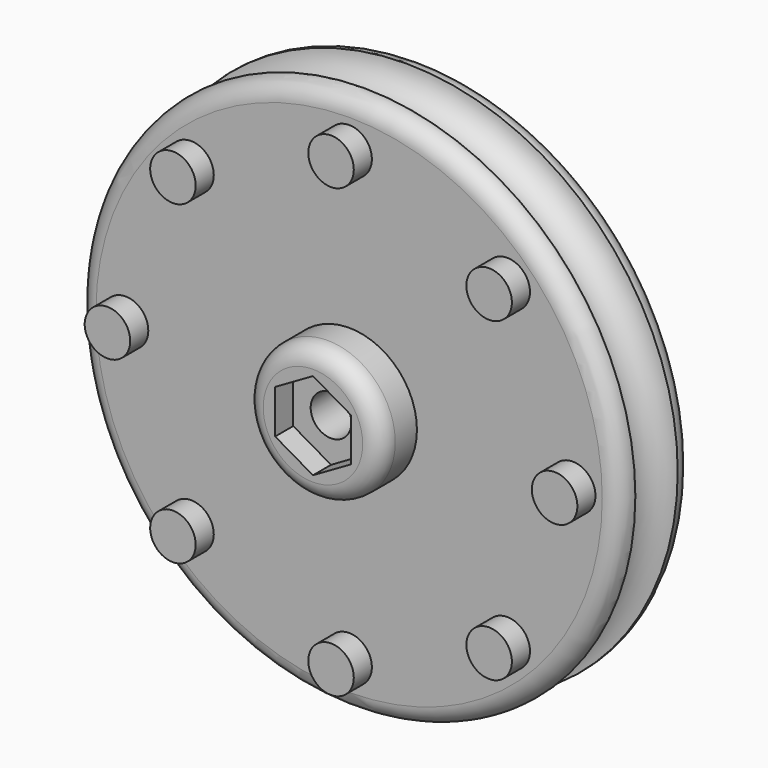
from build123d import *

# Parameters (mm, degrees)
F0_R      = 76.2
F1_DEPTH  = 25.4
F2_R      = 19.05
F3_DEPTH  = 12.7
F4_R      = 5.08
F5_R      = 5.08
F6_R      = 5.715
F7_DEPTH  = 38.1
F8_R      = 5.08
F9_R      = 5.715
F10_DEPTH = 6.35
F11_R     = 7.4420743401
F13_R     = 6.3925523525
F14_DEPTH = 6.35


with BuildPart() as f1:
    # F0 (on Front) → F1 (new body)
    with BuildSketch(Plane.XZ):
        Circle(F0_R)
    extrude(amount=F1_DEPTH)

    # F2 (on face) → F3 (join)
    with BuildSketch(Plane.XZ.offset(25.4)):
        Circle(F2_R)
    extrude(amount=F3_DEPTH)

    # F4
    f4_edges = [f1.edges().sort_by_distance(p)[0] for p in [
        (-76.2, -25.4, 0),
    ]]
    fillet(f4_edges, radius=F4_R)

    # F5
    f5_edges = [f1.edges().sort_by_distance(p)[0] for p in [
        (-76.2, 0, 0),
    ]]
    fillet(f5_edges, radius=F5_R)

    # F6 (on face) → F7 (cut)
    with BuildSketch(Plane.XZ):
        Circle(F6_R)
    extrude(amount=F7_DEPTH, mode=Mode.SUBTRACT)

    # F8
    f8_edges = [f1.edges().sort_by_distance(p)[0] for p in [
        (-19.05, -38.1, 0),
    ]]
    fillet(f8_edges, radius=F8_R)

    # F9 (on face) → F10 (cut)
    with BuildSketch(Plane.XZ.offset(38.1)):
        Polygon((10.6221288443, -6.1326889476), (10.6221288443, 6.1326889476), (0, 12.2653778952), (-10.6221288443, 6.1326889476), (-10.6221288443, -6.1326889476), (0, -12.2653778952), align=None)
        Circle(F9_R, mode=Mode.SUBTRACT)
    extrude(amount=-F10_DEPTH, mode=Mode.SUBTRACT)

    # F11 (on Right) → F12 (revolve, cut)
    with BuildSketch(Plane.YZ):
        with Locations((-12.6859535106, 76.4204957727)):
            Circle(F11_R)
    revolve(axis=Axis((0, 0, 0), (0, -1, 0)), mode=Mode.SUBTRACT)

    # F13 (on face) → F14 (join)
    with BuildSketch(Plane.XZ.offset(25.4)):
        with Locations((0, 62.8129541874)):
            Circle(F13_R)
        with Locations((-44.4154658523, 44.4154658523)):
            Circle(F13_R)
        with Locations((-62.8129541874, 0)):
            Circle(F13_R)
        with Locations((-44.4154658523, -44.4154658523)):
            Circle(F13_R)
        with Locations((0, -62.8129541874)):
            Circle(F13_R)
        with Locations((44.4154658523, -44.4154658523)):
            Circle(F13_R)
        with Locations((62.8129541874, 0)):
            Circle(F13_R)
        with Locations((44.4154658523, 44.4154658523)):
            Circle(F13_R)
    extrude(amount=F14_DEPTH)


solid = f1.part
